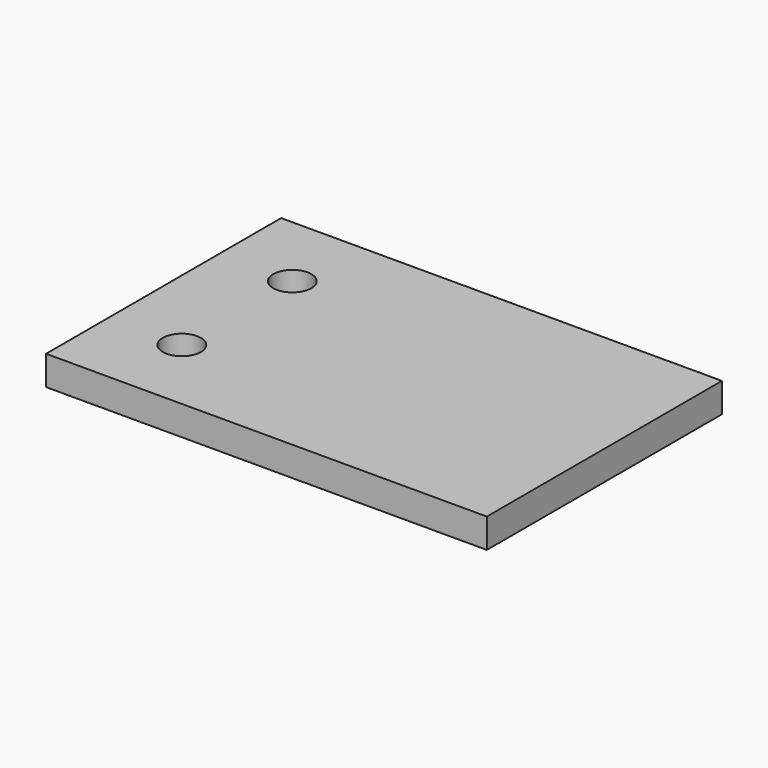
from build123d import *

# Parameters (mm, degrees)
SKETCH_W        = 30
SKETCH_H        = 20
PAD_DEPTH       = 2
SKETCH001_R     = 1.3
POCKET_DEPTH    = 5
POCKET001_DEPTH = 5


with BuildPart() as part:
    # Sketch → Pad (new body)
    with BuildSketch(Plane.XY):
        Rectangle(SKETCH_W, SKETCH_H)
    extrude(amount=PAD_DEPTH)

    # Sketch001 (on Face6 of Pad) → Pocket (cut)
    with BuildSketch(Plane.XY.offset(2)):
        with Locations((-10, 4.7)):
            Circle(SKETCH001_R)
        with Locations((-10, -4.7)):
            Circle(SKETCH001_R)
    extrude(amount=-POCKET_DEPTH, mode=Mode.SUBTRACT)

    # Sketch001 (on Face6 of Pad) → Pocket001 (cut)
    with BuildSketch(Plane.XY.offset(2)):
        with Locations((-10, 4.7)):
            Circle(SKETCH001_R)
        with Locations((-10, -4.7)):
            Circle(SKETCH001_R)
    extrude(amount=-POCKET001_DEPTH, mode=Mode.SUBTRACT)


solid = part.part
